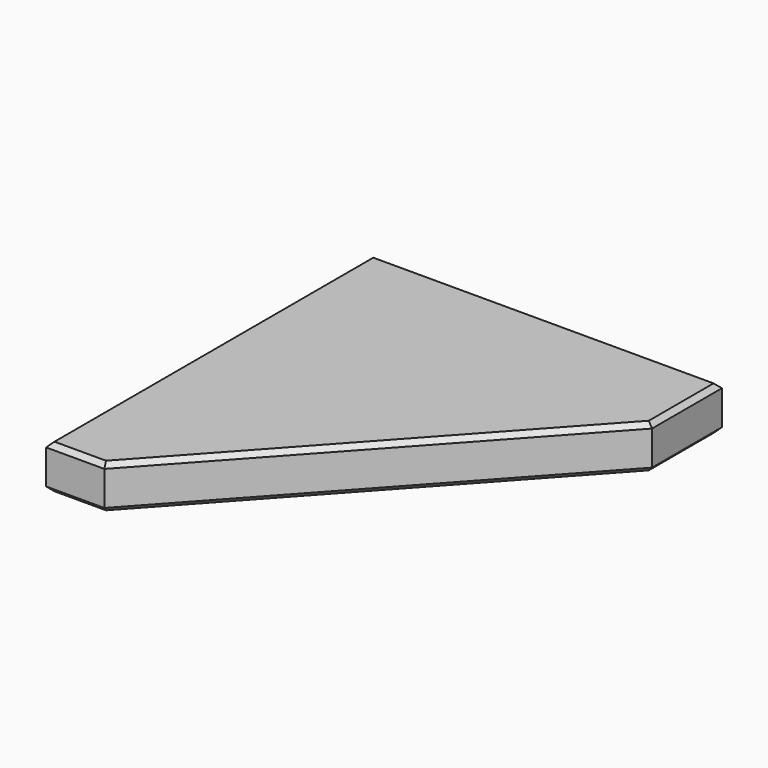
from build123d import *

# Parameters (mm, degrees)
F1_DEPTH = 9.525
F2_SIZE  = 1.016


with BuildPart() as f1:
    # F0 (on Top) → F1 (new body)
    with BuildSketch(Plane.XY):
        Polygon((76.2, 0), (0, 0), (0, -88.9), (12.7, -88.9), (76.2, -19.05), align=None)
    extrude(amount=F1_DEPTH)

    # F2
    f2_edges = [f1.edges().sort_by_distance(p)[0] for p in [
        (44.45, -53.975, 9.525),
        (76.2, -9.525, 9.525),
        (38.1, 0, 9.525),
        (0, -44.45, 9.525),
        (6.35, -88.9, 9.525),
        (44.45, -53.975, 0),
        (76.2, -9.525, 0),
        (38.1, 0, 0),
        (0, -44.45, 0),
        (6.35, -88.9, 0),
    ]]
    chamfer(f2_edges, length=F2_SIZE)


solid = f1.part
